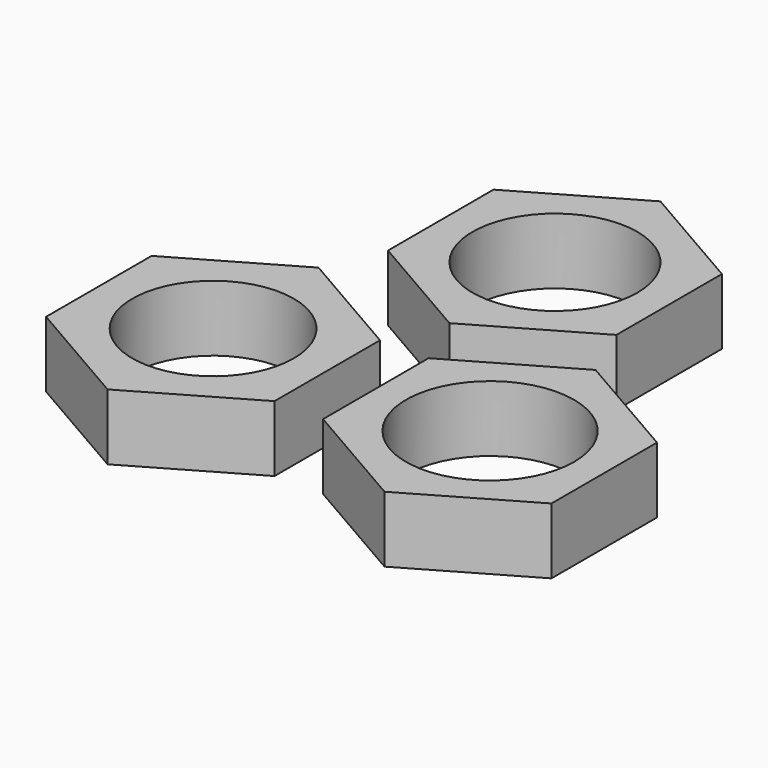
from build123d import *

# Parameters (mm, degrees)
F0_R     = 6.25
F0_R_2   = 6.125
F0_R_3   = 6.375
F1_DEPTH = 5


with BuildPart() as f1:
    # F0 (on Top) → F1 (new body)
    with BuildSketch(Plane.XY):
        Polygon((-8.660254, 7.5), (0, 2.5), (8.660254, 7.5), (8.660254, 17.5), (0, 22.5), (-8.660254, 17.5), align=None)
        with Locations((0, 12.5)):
            Circle(F0_R, mode=Mode.SUBTRACT)
        Polygon((-10.501302, -16.780314), (-1.841048, -11.780314), (-1.841048, -1.780314), (-10.501302, 3.219686), (-19.161556, -1.780314), (-19.161556, -11.780314), align=None)
        with Locations((-10.501302, -6.780314)):
            Circle(F0_R_2, mode=Mode.SUBTRACT)
        Polygon((10.501302, -16.780314), (19.161556, -11.780314), (19.161556, -1.780314), (10.501302, 3.219686), (1.841048, -1.780314), (1.841048, -11.780314), align=None)
        with Locations((10.501302, -6.780314)):
            Circle(F0_R_3, mode=Mode.SUBTRACT)
    extrude(amount=F1_DEPTH)


solid = f1.part
